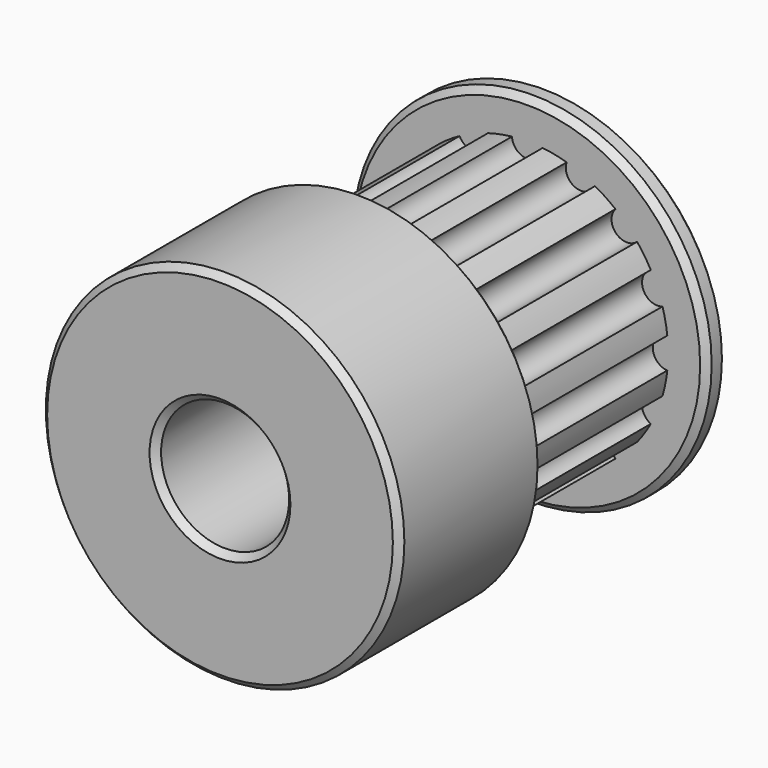
from build123d import *

# Parameters (mm, degrees)
F0_R     = 7
F1_DEPTH = 1
F2_R     = 5.5
F3_DEPTH = 8
F4_R     = 7
F5_DEPTH = 7
F6_R     = 0.6
F7_DEPTH = 8
F8_R     = 2.5
F9_DEPTH = 16.001
F10_SIZE = 0.25


with BuildPart() as f1:
    # F0 (on Front) → F1 (new body)
    with BuildSketch(Plane.XZ):
        Circle(F0_R)
    extrude(amount=F1_DEPTH)

    # F2 (on face) → F3 (join)
    with BuildSketch(Plane.XZ.offset(1)):
        Circle(F2_R)
    extrude(amount=F3_DEPTH)

    # F4 (on face) → F5 (join)
    with BuildSketch(Plane.XZ.offset(9)):
        Circle(F4_R)
    extrude(amount=F5_DEPTH)

    # F6 (on face) → F7 (cut, through all)
    with BuildSketch(Plane.XZ.offset(1)):
        with Locations((0, 5.5)):
            Circle(F6_R)
        with Locations((-2.104759, 5.081337)):
            Circle(F6_R)
        with Locations((-3.889087, 3.889087)):
            Circle(F6_R)
        with Locations((-5.081337, 2.104759)):
            Circle(F6_R)
        with Locations((-5.5, 0)):
            Circle(F6_R)
        with Locations((-5.081337, -2.104759)):
            Circle(F6_R)
        with Locations((-3.889087, -3.889087)):
            Circle(F6_R)
        with Locations((-2.104759, -5.081337)):
            Circle(F6_R)
        with Locations((0, -5.5)):
            Circle(F6_R)
        with Locations((2.104759, -5.081337)):
            Circle(F6_R)
        with Locations((3.889087, -3.889087)):
            Circle(F6_R)
        with Locations((5.081337, -2.104759)):
            Circle(F6_R)
        with Locations((5.5, 0)):
            Circle(F6_R)
        with Locations((5.081337, 2.104759)):
            Circle(F6_R)
        with Locations((3.889087, 3.889087)):
            Circle(F6_R)
        with Locations((2.104759, 5.081337)):
            Circle(F6_R)
    extrude(amount=F7_DEPTH, mode=Mode.SUBTRACT)

    # F8 (on face) → F9 (cut, through all)
    with BuildSketch(Plane.XZ.offset(16)):
        Circle(F8_R)
    extrude(amount=-F9_DEPTH, mode=Mode.SUBTRACT)

    # F10
    f10_edges = [f1.edges().sort_by_distance(p)[0] for p in [
        (7, -12.5, 0),
        (-7, -9, 0),
        (-7, -16, 0),
        (7, -0.5, 0),
        (-7, 0, 0),
        (-7, -1, 0),
        (-2.5, -16, 0),
        (2.5, -8, 0),
        (-2.5, 0, 0),
    ]]
    chamfer(f10_edges, length=F10_SIZE)


solid = f1.part
